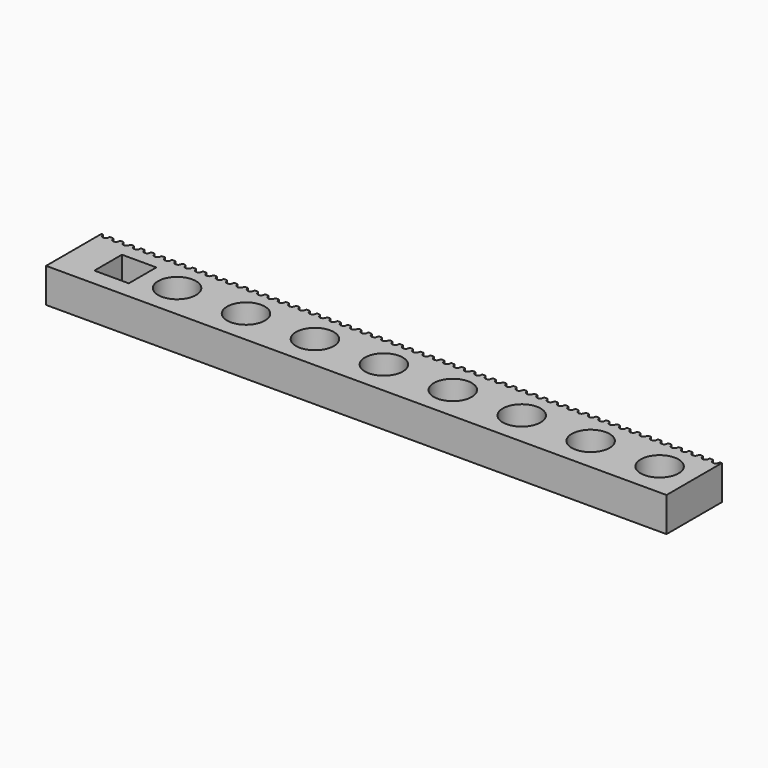
from build123d import *

# Parameters (mm, degrees)
F0_W     = 10
F0_H     = 10
F0_R     = 5.5
F1_DEPTH = 10


with BuildPart() as f1:
    # F0 (on Top) → F1 (new body)
    with BuildSketch(Plane.XY):
        Polygon((0, -1.2), (0, -20.096504), (180, -20.096504), (180, -1.2), (178.5, -1.2), (175.5, -1.2), (172.5, -1.2), (169.5, -1.2), (166.5, -1.2), (163.5, -1.2), (160.5, -1.2), (157.5, -1.2), (154.5, -1.2), (151.5, -1.2), (148.5, -1.2), (145.5, -1.2), (142.5, -1.2), (139.5, -1.2), (136.5, -1.2), (133.5, -1.2), (130.5, -1.2), (127.5, -1.2), (124.5, -1.2), (121.5, -1.2), (118.5, -1.2), (115.5, -1.2), (112.5, -1.2), (109.5, -1.2), (106.5, -1.2), (103.5, -1.2), (100.5, -1.2), (97.5, -1.2), (94.5, -1.2), (91.5, -1.2), (88.5, -1.2), (85.5, -1.2), (82.5, -1.2), (79.5, -1.2), (76.5, -1.2), (73.5, -1.2), (70.5, -1.2), (67.5, -1.2), (64.5, -1.2), (61.5, -1.2), (58.5, -1.2), (55.5, -1.2), (52.5, -1.2), (49.5, -1.2), (46.5, -1.2), (43.5, -1.2), (40.5, -1.2), (37.5, -1.2), (34.5, -1.2), (31.5, -1.2), (28.5, -1.2), (25.5, -1.2), (22.5, -1.2), (19.5, -1.2), (16.5, -1.2), (13.5, -1.2), (10.5, -1.2), (7.5, -1.2), (4.5, -1.2), (1.5, -1.2), align=None)
        with Locations((15, -10.096504)):
            Rectangle(F0_W, F0_H, mode=Mode.SUBTRACT)
        with Locations((30, -10.096504)):
            Circle(F0_R, mode=Mode.SUBTRACT)
        with Locations((50, -10.096504)):
            Circle(F0_R, mode=Mode.SUBTRACT)
        with Locations((70, -10.096504)):
            Circle(F0_R, mode=Mode.SUBTRACT)
        with Locations((90, -10.096504)):
            Circle(F0_R, mode=Mode.SUBTRACT)
        with Locations((110, -10.096504)):
            Circle(F0_R, mode=Mode.SUBTRACT)
        with Locations((130, -10.096504)):
            Circle(F0_R, mode=Mode.SUBTRACT)
        with Locations((150, -10.096504)):
            Circle(F0_R, mode=Mode.SUBTRACT)
        with Locations((170, -10.096504)):
            Circle(F0_R, mode=Mode.SUBTRACT)
        with BuildLine():
            Line((0, 0), (0, -1.2))
            Line((0, -1.2), (1.5, -1.2))
            ThreePointArc((1.5, -1.2), (0.863604, -0.936396), (0.6, -0.3))
            ThreePointArc((0.6, -0.3), (0.512132, -0.087868), (0.3, 0))
            Line((0.3, 0), (0, 0))
        make_face()
        with BuildLine():
            Line((178.5, -1.2), (180, -1.2))
            Line((180, -1.2), (180, 0))
            Line((180, 0), (179.7, 0))
            ThreePointArc((179.7, 0), (179.487868, -0.087868), (179.4, -0.3))
            ThreePointArc((179.4, -0.3), (179.136396, -0.936396), (178.5, -1.2))
        make_face()
        with BuildLine():
            ThreePointArc((2.4, -0.3), (2.136396, -0.936396), (1.5, -1.2))
            Line((1.5, -1.2), (4.5, -1.2))
            ThreePointArc((4.5, -1.2), (3.863604, -0.936396), (3.6, -0.3))
            ThreePointArc((3.6, -0.3), (3.512132, -0.087868), (3.3, 0))
            Line((3.3, 0), (3, 0))
            Line((3, 0), (2.7, 0))
            ThreePointArc((2.7, 0), (2.487868, -0.087868), (2.4, -0.3))
        make_face()
        with BuildLine():
            Line((175.5, -1.2), (178.5, -1.2))
            ThreePointArc((178.5, -1.2), (177.863604, -0.936396), (177.6, -0.3))
            ThreePointArc((177.6, -0.3), (177.512132, -0.087868), (177.3, 0))
            Line((177.3, 0), (177, 0))
            Line((177, 0), (176.7, 0))
            ThreePointArc((176.7, 0), (176.487868, -0.087868), (176.4, -0.3))
            ThreePointArc((176.4, -0.3), (176.136396, -0.936396), (175.5, -1.2))
        make_face()
        with BuildLine():
            ThreePointArc((5.4, -0.3), (5.136396, -0.936396), (4.5, -1.2))
            Line((4.5, -1.2), (7.5, -1.2))
            ThreePointArc((7.5, -1.2), (6.863604, -0.936396), (6.6, -0.3))
            ThreePointArc((6.6, -0.3), (6.512132, -0.087868), (6.3, 0))
            Line((6.3, 0), (6, 0))
            Line((6, 0), (5.7, 0))
            ThreePointArc((5.7, 0), (5.487868, -0.087868), (5.4, -0.3))
        make_face()
        with BuildLine():
            Line((172.5, -1.2), (175.5, -1.2))
            ThreePointArc((175.5, -1.2), (174.863604, -0.936396), (174.6, -0.3))
            ThreePointArc((174.6, -0.3), (174.512132, -0.087868), (174.3, 0))
            Line((174.3, 0), (174, 0))
            Line((174, 0), (173.7, 0))
            ThreePointArc((173.7, 0), (173.487868, -0.087868), (173.4, -0.3))
            ThreePointArc((173.4, -0.3), (173.136396, -0.936396), (172.5, -1.2))
        make_face()
        with BuildLine():
            ThreePointArc((8.4, -0.3), (8.136396, -0.936396), (7.5, -1.2))
            Line((7.5, -1.2), (10.5, -1.2))
            ThreePointArc((10.5, -1.2), (9.863604, -0.936396), (9.6, -0.3))
            ThreePointArc((9.6, -0.3), (9.512132, -0.087868), (9.3, 0))
            Line((9.3, 0), (9, 0))
            Line((9, 0), (8.7, 0))
            ThreePointArc((8.7, 0), (8.487868, -0.087868), (8.4, -0.3))
        make_face()
        with BuildLine():
            Line((169.5, -1.2), (172.5, -1.2))
            ThreePointArc((172.5, -1.2), (171.863604, -0.936396), (171.6, -0.3))
            ThreePointArc((171.6, -0.3), (171.512132, -0.087868), (171.3, 0))
            Line((171.3, 0), (171, 0))
            Line((171, 0), (170.7, 0))
            ThreePointArc((170.7, 0), (170.487868, -0.087868), (170.4, -0.3))
            ThreePointArc((170.4, -0.3), (170.136396, -0.936396), (169.5, -1.2))
        make_face()
        with BuildLine():
            ThreePointArc((11.4, -0.3), (11.136396, -0.936396), (10.5, -1.2))
            Line((10.5, -1.2), (13.5, -1.2))
            ThreePointArc((13.5, -1.2), (12.863604, -0.936396), (12.6, -0.3))
            ThreePointArc((12.6, -0.3), (12.512132, -0.087868), (12.3, 0))
            Line((12.3, 0), (12, 0))
            Line((12, 0), (11.7, 0))
            ThreePointArc((11.7, 0), (11.487868, -0.087868), (11.4, -0.3))
        make_face()
        with BuildLine():
            Line((166.5, -1.2), (169.5, -1.2))
            ThreePointArc((169.5, -1.2), (168.863604, -0.936396), (168.6, -0.3))
            ThreePointArc((168.6, -0.3), (168.512132, -0.087868), (168.3, 0))
            Line((168.3, 0), (168, 0))
            Line((168, 0), (167.7, 0))
            ThreePointArc((167.7, 0), (167.487868, -0.087868), (167.4, -0.3))
            ThreePointArc((167.4, -0.3), (167.136396, -0.936396), (166.5, -1.2))
        make_face()
        with BuildLine():
            ThreePointArc((14.4, -0.3), (14.136396, -0.936396), (13.5, -1.2))
            Line((13.5, -1.2), (16.5, -1.2))
            ThreePointArc((16.5, -1.2), (15.863604, -0.936396), (15.6, -0.3))
            ThreePointArc((15.6, -0.3), (15.512132, -0.087868), (15.3, 0))
            Line((15.3, 0), (15, 0))
            Line((15, 0), (14.7, 0))
            ThreePointArc((14.7, 0), (14.487868, -0.087868), (14.4, -0.3))
        make_face()
        with BuildLine():
            Line((163.5, -1.2), (166.5, -1.2))
            ThreePointArc((166.5, -1.2), (165.863604, -0.936396), (165.6, -0.3))
            ThreePointArc((165.6, -0.3), (165.512132, -0.087868), (165.3, 0))
            Line((165.3, 0), (165, 0))
            Line((165, 0), (164.7, 0))
            ThreePointArc((164.7, 0), (164.487868, -0.087868), (164.4, -0.3))
            ThreePointArc((164.4, -0.3), (164.136396, -0.936396), (163.5, -1.2))
        make_face()
        with BuildLine():
            ThreePointArc((17.4, -0.3), (17.136396, -0.936396), (16.5, -1.2))
            Line((16.5, -1.2), (19.5, -1.2))
            ThreePointArc((19.5, -1.2), (18.863604, -0.936396), (18.6, -0.3))
            ThreePointArc((18.6, -0.3), (18.512132, -0.087868), (18.3, 0))
            Line((18.3, 0), (18, 0))
            Line((18, 0), (17.7, 0))
            ThreePointArc((17.7, 0), (17.487868, -0.087868), (17.4, -0.3))
        make_face()
        with BuildLine():
            Line((160.5, -1.2), (163.5, -1.2))
            ThreePointArc((163.5, -1.2), (162.863604, -0.936396), (162.6, -0.3))
            ThreePointArc((162.6, -0.3), (162.512132, -0.087868), (162.3, 0))
            Line((162.3, 0), (162, 0))
            Line((162, 0), (161.7, 0))
            ThreePointArc((161.7, 0), (161.487868, -0.087868), (161.4, -0.3))
            ThreePointArc((161.4, -0.3), (161.136396, -0.936396), (160.5, -1.2))
        make_face()
        with BuildLine():
            ThreePointArc((20.4, -0.3), (20.136396, -0.936396), (19.5, -1.2))
            Line((19.5, -1.2), (22.5, -1.2))
            ThreePointArc((22.5, -1.2), (21.863604, -0.936396), (21.6, -0.3))
            ThreePointArc((21.6, -0.3), (21.512132, -0.087868), (21.3, 0))
            Line((21.3, 0), (21, 0))
            Line((21, 0), (20.7, 0))
            ThreePointArc((20.7, 0), (20.487868, -0.087868), (20.4, -0.3))
        make_face()
        with BuildLine():
            Line((157.5, -1.2), (160.5, -1.2))
            ThreePointArc((160.5, -1.2), (159.863604, -0.936396), (159.6, -0.3))
            ThreePointArc((159.6, -0.3), (159.512132, -0.087868), (159.3, 0))
            Line((159.3, 0), (159, 0))
            Line((159, 0), (158.7, 0))
            ThreePointArc((158.7, 0), (158.487868, -0.087868), (158.4, -0.3))
            ThreePointArc((158.4, -0.3), (158.136396, -0.936396), (157.5, -1.2))
        make_face()
        with BuildLine():
            ThreePointArc((23.4, -0.3), (23.136396, -0.936396), (22.5, -1.2))
            Line((22.5, -1.2), (25.5, -1.2))
            ThreePointArc((25.5, -1.2), (24.863604, -0.936396), (24.6, -0.3))
            ThreePointArc((24.6, -0.3), (24.512132, -0.087868), (24.3, 0))
            Line((24.3, 0), (24, 0))
            Line((24, 0), (23.7, 0))
            ThreePointArc((23.7, 0), (23.487868, -0.087868), (23.4, -0.3))
        make_face()
        with BuildLine():
            Line((154.5, -1.2), (157.5, -1.2))
            ThreePointArc((157.5, -1.2), (156.863604, -0.936396), (156.6, -0.3))
            ThreePointArc((156.6, -0.3), (156.512132, -0.087868), (156.3, 0))
            Line((156.3, 0), (156, 0))
            Line((156, 0), (155.7, 0))
            ThreePointArc((155.7, 0), (155.487868, -0.087868), (155.4, -0.3))
            ThreePointArc((155.4, -0.3), (155.136396, -0.936396), (154.5, -1.2))
        make_face()
        with BuildLine():
            ThreePointArc((26.4, -0.3), (26.136396, -0.936396), (25.5, -1.2))
            Line((25.5, -1.2), (28.5, -1.2))
            ThreePointArc((28.5, -1.2), (27.863604, -0.936396), (27.6, -0.3))
            ThreePointArc((27.6, -0.3), (27.512132, -0.087868), (27.3, 0))
            Line((27.3, 0), (27, 0))
            Line((27, 0), (26.7, 0))
            ThreePointArc((26.7, 0), (26.487868, -0.087868), (26.4, -0.3))
        make_face()
        with BuildLine():
            Line((151.5, -1.2), (154.5, -1.2))
            ThreePointArc((154.5, -1.2), (153.863604, -0.936396), (153.6, -0.3))
            ThreePointArc((153.6, -0.3), (153.512132, -0.087868), (153.3, 0))
            Line((153.3, 0), (153, 0))
            Line((153, 0), (152.7, 0))
            ThreePointArc((152.7, 0), (152.487868, -0.087868), (152.4, -0.3))
            ThreePointArc((152.4, -0.3), (152.136396, -0.936396), (151.5, -1.2))
        make_face()
        with BuildLine():
            ThreePointArc((29.4, -0.3), (29.136396, -0.936396), (28.5, -1.2))
            Line((28.5, -1.2), (31.5, -1.2))
            ThreePointArc((31.5, -1.2), (30.863604, -0.936396), (30.6, -0.3))
            ThreePointArc((30.6, -0.3), (30.512132, -0.087868), (30.3, 0))
            Line((30.3, 0), (30, 0))
            Line((30, 0), (29.7, 0))
            ThreePointArc((29.7, 0), (29.487868, -0.087868), (29.4, -0.3))
        make_face()
        with BuildLine():
            Line((148.5, -1.2), (151.5, -1.2))
            ThreePointArc((151.5, -1.2), (150.863604, -0.936396), (150.6, -0.3))
            ThreePointArc((150.6, -0.3), (150.512132, -0.087868), (150.3, 0))
            Line((150.3, 0), (150, 0))
            Line((150, 0), (149.7, 0))
            ThreePointArc((149.7, 0), (149.487868, -0.087868), (149.4, -0.3))
            ThreePointArc((149.4, -0.3), (149.136396, -0.936396), (148.5, -1.2))
        make_face()
        with BuildLine():
            ThreePointArc((32.4, -0.3), (32.136396, -0.936396), (31.5, -1.2))
            Line((31.5, -1.2), (34.5, -1.2))
            ThreePointArc((34.5, -1.2), (33.863604, -0.936396), (33.6, -0.3))
            ThreePointArc((33.6, -0.3), (33.512132, -0.087868), (33.3, 0))
            Line((33.3, 0), (33, 0))
            Line((33, 0), (32.7, 0))
            ThreePointArc((32.7, 0), (32.487868, -0.087868), (32.4, -0.3))
        make_face()
        with BuildLine():
            Line((145.5, -1.2), (148.5, -1.2))
            ThreePointArc((148.5, -1.2), (147.863604, -0.936396), (147.6, -0.3))
            ThreePointArc((147.6, -0.3), (147.512132, -0.087868), (147.3, 0))
            Line((147.3, 0), (147, 0))
            Line((147, 0), (146.7, 0))
            ThreePointArc((146.7, 0), (146.487868, -0.087868), (146.4, -0.3))
            ThreePointArc((146.4, -0.3), (146.136396, -0.936396), (145.5, -1.2))
        make_face()
        with BuildLine():
            ThreePointArc((35.4, -0.3), (35.136396, -0.936396), (34.5, -1.2))
            Line((34.5, -1.2), (37.5, -1.2))
            ThreePointArc((37.5, -1.2), (36.863604, -0.936396), (36.6, -0.3))
            ThreePointArc((36.6, -0.3), (36.512132, -0.087868), (36.3, 0))
            Line((36.3, 0), (36, 0))
            Line((36, 0), (35.7, 0))
            ThreePointArc((35.7, 0), (35.487868, -0.087868), (35.4, -0.3))
        make_face()
        with BuildLine():
            Line((142.5, -1.2), (145.5, -1.2))
            ThreePointArc((145.5, -1.2), (144.863604, -0.936396), (144.6, -0.3))
            ThreePointArc((144.6, -0.3), (144.512132, -0.087868), (144.3, 0))
            Line((144.3, 0), (144, 0))
            Line((144, 0), (143.7, 0))
            ThreePointArc((143.7, 0), (143.487868, -0.087868), (143.4, -0.3))
            ThreePointArc((143.4, -0.3), (143.136396, -0.936396), (142.5, -1.2))
        make_face()
        with BuildLine():
            ThreePointArc((38.4, -0.3), (38.136396, -0.936396), (37.5, -1.2))
            Line((37.5, -1.2), (40.5, -1.2))
            ThreePointArc((40.5, -1.2), (39.863604, -0.936396), (39.6, -0.3))
            ThreePointArc((39.6, -0.3), (39.512132, -0.087868), (39.3, 0))
            Line((39.3, 0), (39, 0))
            Line((39, 0), (38.7, 0))
            ThreePointArc((38.7, 0), (38.487868, -0.087868), (38.4, -0.3))
        make_face()
        with BuildLine():
            Line((139.5, -1.2), (142.5, -1.2))
            ThreePointArc((142.5, -1.2), (141.863604, -0.936396), (141.6, -0.3))
            ThreePointArc((141.6, -0.3), (141.512132, -0.087868), (141.3, 0))
            Line((141.3, 0), (141, 0))
            Line((141, 0), (140.7, 0))
            ThreePointArc((140.7, 0), (140.487868, -0.087868), (140.4, -0.3))
            ThreePointArc((140.4, -0.3), (140.136396, -0.936396), (139.5, -1.2))
        make_face()
        with BuildLine():
            ThreePointArc((41.4, -0.3), (41.136396, -0.936396), (40.5, -1.2))
            Line((40.5, -1.2), (43.5, -1.2))
            ThreePointArc((43.5, -1.2), (42.863604, -0.936396), (42.6, -0.3))
            ThreePointArc((42.6, -0.3), (42.512132, -0.087868), (42.3, 0))
            Line((42.3, 0), (42, 0))
            Line((42, 0), (41.7, 0))
            ThreePointArc((41.7, 0), (41.487868, -0.087868), (41.4, -0.3))
        make_face()
        with BuildLine():
            Line((136.5, -1.2), (139.5, -1.2))
            ThreePointArc((139.5, -1.2), (138.863604, -0.936396), (138.6, -0.3))
            ThreePointArc((138.6, -0.3), (138.512132, -0.087868), (138.3, 0))
            Line((138.3, 0), (138, 0))
            Line((138, 0), (137.7, 0))
            ThreePointArc((137.7, 0), (137.487868, -0.087868), (137.4, -0.3))
            ThreePointArc((137.4, -0.3), (137.136396, -0.936396), (136.5, -1.2))
        make_face()
        with BuildLine():
            ThreePointArc((44.4, -0.3), (44.136396, -0.936396), (43.5, -1.2))
            Line((43.5, -1.2), (46.5, -1.2))
            ThreePointArc((46.5, -1.2), (45.863604, -0.936396), (45.6, -0.3))
            ThreePointArc((45.6, -0.3), (45.512132, -0.087868), (45.3, 0))
            Line((45.3, 0), (45, 0))
            Line((45, 0), (44.7, 0))
            ThreePointArc((44.7, 0), (44.487868, -0.087868), (44.4, -0.3))
        make_face()
        with BuildLine():
            Line((133.5, -1.2), (136.5, -1.2))
            ThreePointArc((136.5, -1.2), (135.863604, -0.936396), (135.6, -0.3))
            ThreePointArc((135.6, -0.3), (135.512132, -0.087868), (135.3, 0))
            Line((135.3, 0), (135, 0))
            Line((135, 0), (134.7, 0))
            ThreePointArc((134.7, 0), (134.487868, -0.087868), (134.4, -0.3))
            ThreePointArc((134.4, -0.3), (134.136396, -0.936396), (133.5, -1.2))
        make_face()
        with BuildLine():
            ThreePointArc((47.4, -0.3), (47.136396, -0.936396), (46.5, -1.2))
            Line((46.5, -1.2), (49.5, -1.2))
            ThreePointArc((49.5, -1.2), (48.863604, -0.936396), (48.6, -0.3))
            ThreePointArc((48.6, -0.3), (48.512132, -0.087868), (48.3, 0))
            Line((48.3, 0), (48, 0))
            Line((48, 0), (47.7, 0))
            ThreePointArc((47.7, 0), (47.487868, -0.087868), (47.4, -0.3))
        make_face()
        with BuildLine():
            Line((130.5, -1.2), (133.5, -1.2))
            ThreePointArc((133.5, -1.2), (132.863604, -0.936396), (132.6, -0.3))
            ThreePointArc((132.6, -0.3), (132.512132, -0.087868), (132.3, 0))
            Line((132.3, 0), (132, 0))
            Line((132, 0), (131.7, 0))
            ThreePointArc((131.7, 0), (131.487868, -0.087868), (131.4, -0.3))
            ThreePointArc((131.4, -0.3), (131.136396, -0.936396), (130.5, -1.2))
        make_face()
        with BuildLine():
            ThreePointArc((50.4, -0.3), (50.136396, -0.936396), (49.5, -1.2))
            Line((49.5, -1.2), (52.5, -1.2))
            ThreePointArc((52.5, -1.2), (51.863604, -0.936396), (51.6, -0.3))
            ThreePointArc((51.6, -0.3), (51.512132, -0.087868), (51.3, 0))
            Line((51.3, 0), (51, 0))
            Line((51, 0), (50.7, 0))
            ThreePointArc((50.7, 0), (50.487868, -0.087868), (50.4, -0.3))
        make_face()
        with BuildLine():
            Line((127.5, -1.2), (130.5, -1.2))
            ThreePointArc((130.5, -1.2), (129.863604, -0.936396), (129.6, -0.3))
            ThreePointArc((129.6, -0.3), (129.512132, -0.087868), (129.3, 0))
            Line((129.3, 0), (129, 0))
            Line((129, 0), (128.7, 0))
            ThreePointArc((128.7, 0), (128.487868, -0.087868), (128.4, -0.3))
            ThreePointArc((128.4, -0.3), (128.136396, -0.936396), (127.5, -1.2))
        make_face()
        with BuildLine():
            ThreePointArc((53.4, -0.3), (53.136396, -0.936396), (52.5, -1.2))
            Line((52.5, -1.2), (55.5, -1.2))
            ThreePointArc((55.5, -1.2), (54.863604, -0.936396), (54.6, -0.3))
            ThreePointArc((54.6, -0.3), (54.512132, -0.087868), (54.3, 0))
            Line((54.3, 0), (54, 0))
            Line((54, 0), (53.7, 0))
            ThreePointArc((53.7, 0), (53.487868, -0.087868), (53.4, -0.3))
        make_face()
        with BuildLine():
            Line((124.5, -1.2), (127.5, -1.2))
            ThreePointArc((127.5, -1.2), (126.863604, -0.936396), (126.6, -0.3))
            ThreePointArc((126.6, -0.3), (126.512132, -0.087868), (126.3, 0))
            Line((126.3, 0), (126, 0))
            Line((126, 0), (125.7, 0))
            ThreePointArc((125.7, 0), (125.487868, -0.087868), (125.4, -0.3))
            ThreePointArc((125.4, -0.3), (125.136396, -0.936396), (124.5, -1.2))
        make_face()
        with BuildLine():
            ThreePointArc((56.4, -0.3), (56.136396, -0.936396), (55.5, -1.2))
            Line((55.5, -1.2), (58.5, -1.2))
            ThreePointArc((58.5, -1.2), (57.863604, -0.936396), (57.6, -0.3))
            ThreePointArc((57.6, -0.3), (57.512132, -0.087868), (57.3, 0))
            Line((57.3, 0), (57, 0))
            Line((57, 0), (56.7, 0))
            ThreePointArc((56.7, 0), (56.487868, -0.087868), (56.4, -0.3))
        make_face()
        with BuildLine():
            Line((121.5, -1.2), (124.5, -1.2))
            ThreePointArc((124.5, -1.2), (123.863604, -0.936396), (123.6, -0.3))
            ThreePointArc((123.6, -0.3), (123.512132, -0.087868), (123.3, 0))
            Line((123.3, 0), (123, 0))
            Line((123, 0), (122.7, 0))
            ThreePointArc((122.7, 0), (122.487868, -0.087868), (122.4, -0.3))
            ThreePointArc((122.4, -0.3), (122.136396, -0.936396), (121.5, -1.2))
        make_face()
        with BuildLine():
            ThreePointArc((59.4, -0.3), (59.136396, -0.936396), (58.5, -1.2))
            Line((58.5, -1.2), (61.5, -1.2))
            ThreePointArc((61.5, -1.2), (60.863604, -0.936396), (60.6, -0.3))
            ThreePointArc((60.6, -0.3), (60.512132, -0.087868), (60.3, 0))
            Line((60.3, 0), (60, 0))
            Line((60, 0), (59.7, 0))
            ThreePointArc((59.7, 0), (59.487868, -0.087868), (59.4, -0.3))
        make_face()
        with BuildLine():
            Line((118.5, -1.2), (121.5, -1.2))
            ThreePointArc((121.5, -1.2), (120.863604, -0.936396), (120.6, -0.3))
            ThreePointArc((120.6, -0.3), (120.512132, -0.087868), (120.3, 0))
            Line((120.3, 0), (120, 0))
            Line((120, 0), (119.7, 0))
            ThreePointArc((119.7, 0), (119.487868, -0.087868), (119.4, -0.3))
            ThreePointArc((119.4, -0.3), (119.136396, -0.936396), (118.5, -1.2))
        make_face()
        with BuildLine():
            ThreePointArc((62.4, -0.3), (62.136396, -0.936396), (61.5, -1.2))
            Line((61.5, -1.2), (64.5, -1.2))
            ThreePointArc((64.5, -1.2), (63.863604, -0.936396), (63.6, -0.3))
            ThreePointArc((63.6, -0.3), (63.512132, -0.087868), (63.3, 0))
            Line((63.3, 0), (63, 0))
            Line((63, 0), (62.7, 0))
            ThreePointArc((62.7, 0), (62.487868, -0.087868), (62.4, -0.3))
        make_face()
        with BuildLine():
            Line((115.5, -1.2), (118.5, -1.2))
            ThreePointArc((118.5, -1.2), (117.863604, -0.936396), (117.6, -0.3))
            ThreePointArc((117.6, -0.3), (117.512132, -0.087868), (117.3, 0))
            Line((117.3, 0), (117, 0))
            Line((117, 0), (116.7, 0))
            ThreePointArc((116.7, 0), (116.487868, -0.087868), (116.4, -0.3))
            ThreePointArc((116.4, -0.3), (116.136396, -0.936396), (115.5, -1.2))
        make_face()
        with BuildLine():
            ThreePointArc((65.4, -0.3), (65.136396, -0.936396), (64.5, -1.2))
            Line((64.5, -1.2), (67.5, -1.2))
            ThreePointArc((67.5, -1.2), (66.863604, -0.936396), (66.6, -0.3))
            ThreePointArc((66.6, -0.3), (66.512132, -0.087868), (66.3, 0))
            Line((66.3, 0), (66, 0))
            Line((66, 0), (65.7, 0))
            ThreePointArc((65.7, 0), (65.487868, -0.087868), (65.4, -0.3))
        make_face()
        with BuildLine():
            Line((112.5, -1.2), (115.5, -1.2))
            ThreePointArc((115.5, -1.2), (114.863604, -0.936396), (114.6, -0.3))
            ThreePointArc((114.6, -0.3), (114.512132, -0.087868), (114.3, 0))
            Line((114.3, 0), (114, 0))
            Line((114, 0), (113.7, 0))
            ThreePointArc((113.7, 0), (113.487868, -0.087868), (113.4, -0.3))
            ThreePointArc((113.4, -0.3), (113.136396, -0.936396), (112.5, -1.2))
        make_face()
        with BuildLine():
            ThreePointArc((68.4, -0.3), (68.136396, -0.936396), (67.5, -1.2))
            Line((67.5, -1.2), (70.5, -1.2))
            ThreePointArc((70.5, -1.2), (69.863604, -0.936396), (69.6, -0.3))
            ThreePointArc((69.6, -0.3), (69.512132, -0.087868), (69.3, 0))
            Line((69.3, 0), (69, 0))
            Line((69, 0), (68.7, 0))
            ThreePointArc((68.7, 0), (68.487868, -0.087868), (68.4, -0.3))
        make_face()
        with BuildLine():
            Line((109.5, -1.2), (112.5, -1.2))
            ThreePointArc((112.5, -1.2), (111.863604, -0.936396), (111.6, -0.3))
            ThreePointArc((111.6, -0.3), (111.512132, -0.087868), (111.3, 0))
            Line((111.3, 0), (111, 0))
            Line((111, 0), (110.7, 0))
            ThreePointArc((110.7, 0), (110.487868, -0.087868), (110.4, -0.3))
            ThreePointArc((110.4, -0.3), (110.136396, -0.936396), (109.5, -1.2))
        make_face()
        with BuildLine():
            ThreePointArc((71.4, -0.3), (71.136396, -0.936396), (70.5, -1.2))
            Line((70.5, -1.2), (73.5, -1.2))
            ThreePointArc((73.5, -1.2), (72.863604, -0.936396), (72.6, -0.3))
            ThreePointArc((72.6, -0.3), (72.512132, -0.087868), (72.3, 0))
            Line((72.3, 0), (72, 0))
            Line((72, 0), (71.7, 0))
            ThreePointArc((71.7, 0), (71.487868, -0.087868), (71.4, -0.3))
        make_face()
        with BuildLine():
            Line((106.5, -1.2), (109.5, -1.2))
            ThreePointArc((109.5, -1.2), (108.863604, -0.936396), (108.6, -0.3))
            ThreePointArc((108.6, -0.3), (108.512132, -0.087868), (108.3, 0))
            Line((108.3, 0), (108, 0))
            Line((108, 0), (107.7, 0))
            ThreePointArc((107.7, 0), (107.487868, -0.087868), (107.4, -0.3))
            ThreePointArc((107.4, -0.3), (107.136396, -0.936396), (106.5, -1.2))
        make_face()
        with BuildLine():
            ThreePointArc((74.4, -0.3), (74.136396, -0.936396), (73.5, -1.2))
            Line((73.5, -1.2), (76.5, -1.2))
            ThreePointArc((76.5, -1.2), (75.863604, -0.936396), (75.6, -0.3))
            ThreePointArc((75.6, -0.3), (75.512132, -0.087868), (75.3, 0))
            Line((75.3, 0), (75, 0))
            Line((75, 0), (74.7, 0))
            ThreePointArc((74.7, 0), (74.487868, -0.087868), (74.4, -0.3))
        make_face()
        with BuildLine():
            Line((103.5, -1.2), (106.5, -1.2))
            ThreePointArc((106.5, -1.2), (105.863604, -0.936396), (105.6, -0.3))
            ThreePointArc((105.6, -0.3), (105.512132, -0.087868), (105.3, 0))
            Line((105.3, 0), (105, 0))
            Line((105, 0), (104.7, 0))
            ThreePointArc((104.7, 0), (104.487868, -0.087868), (104.4, -0.3))
            ThreePointArc((104.4, -0.3), (104.136396, -0.936396), (103.5, -1.2))
        make_face()
        with BuildLine():
            ThreePointArc((77.4, -0.3), (77.136396, -0.936396), (76.5, -1.2))
            Line((76.5, -1.2), (79.5, -1.2))
            ThreePointArc((79.5, -1.2), (78.863604, -0.936396), (78.6, -0.3))
            ThreePointArc((78.6, -0.3), (78.512132, -0.087868), (78.3, 0))
            Line((78.3, 0), (78, 0))
            Line((78, 0), (77.7, 0))
            ThreePointArc((77.7, 0), (77.487868, -0.087868), (77.4, -0.3))
        make_face()
        with BuildLine():
            Line((100.5, -1.2), (103.5, -1.2))
            ThreePointArc((103.5, -1.2), (102.863604, -0.936396), (102.6, -0.3))
            ThreePointArc((102.6, -0.3), (102.512132, -0.087868), (102.3, 0))
            Line((102.3, 0), (102, 0))
            Line((102, 0), (101.7, 0))
            ThreePointArc((101.7, 0), (101.487868, -0.087868), (101.4, -0.3))
            ThreePointArc((101.4, -0.3), (101.136396, -0.936396), (100.5, -1.2))
        make_face()
        with BuildLine():
            ThreePointArc((80.4, -0.3), (80.136396, -0.936396), (79.5, -1.2))
            Line((79.5, -1.2), (82.5, -1.2))
            ThreePointArc((82.5, -1.2), (81.863604, -0.936396), (81.6, -0.3))
            ThreePointArc((81.6, -0.3), (81.512132, -0.087868), (81.3, 0))
            Line((81.3, 0), (81, 0))
            Line((81, 0), (80.7, 0))
            ThreePointArc((80.7, 0), (80.487868, -0.087868), (80.4, -0.3))
        make_face()
        with BuildLine():
            Line((97.5, -1.2), (100.5, -1.2))
            ThreePointArc((100.5, -1.2), (99.863604, -0.936396), (99.6, -0.3))
            ThreePointArc((99.6, -0.3), (99.512132, -0.087868), (99.3, 0))
            Line((99.3, 0), (99, 0))
            Line((99, 0), (98.7, 0))
            ThreePointArc((98.7, 0), (98.487868, -0.087868), (98.4, -0.3))
            ThreePointArc((98.4, -0.3), (98.136396, -0.936396), (97.5, -1.2))
        make_face()
        with BuildLine():
            ThreePointArc((83.4, -0.3), (83.136396, -0.936396), (82.5, -1.2))
            Line((82.5, -1.2), (85.5, -1.2))
            ThreePointArc((85.5, -1.2), (84.863604, -0.936396), (84.6, -0.3))
            ThreePointArc((84.6, -0.3), (84.512132, -0.087868), (84.3, 0))
            Line((84.3, 0), (84, 0))
            Line((84, 0), (83.7, 0))
            ThreePointArc((83.7, 0), (83.487868, -0.087868), (83.4, -0.3))
        make_face()
        with BuildLine():
            Line((94.5, -1.2), (97.5, -1.2))
            ThreePointArc((97.5, -1.2), (96.863604, -0.936396), (96.6, -0.3))
            ThreePointArc((96.6, -0.3), (96.512132, -0.087868), (96.3, 0))
            Line((96.3, 0), (96, 0))
            Line((96, 0), (95.7, 0))
            ThreePointArc((95.7, 0), (95.487868, -0.087868), (95.4, -0.3))
            ThreePointArc((95.4, -0.3), (95.136396, -0.936396), (94.5, -1.2))
        make_face()
        with BuildLine():
            ThreePointArc((86.4, -0.3), (86.136396, -0.936396), (85.5, -1.2))
            Line((85.5, -1.2), (88.5, -1.2))
            ThreePointArc((88.5, -1.2), (87.863604, -0.936396), (87.6, -0.3))
            ThreePointArc((87.6, -0.3), (87.512132, -0.087868), (87.3, 0))
            Line((87.3, 0), (87, 0))
            Line((87, 0), (86.7, 0))
            ThreePointArc((86.7, 0), (86.487868, -0.087868), (86.4, -0.3))
        make_face()
        with BuildLine():
            Line((91.5, -1.2), (94.5, -1.2))
            ThreePointArc((94.5, -1.2), (93.863604, -0.936396), (93.6, -0.3))
            ThreePointArc((93.6, -0.3), (93.512132, -0.087868), (93.3, 0))
            Line((93.3, 0), (93, 0))
            Line((93, 0), (92.7, 0))
            ThreePointArc((92.7, 0), (92.487868, -0.087868), (92.4, -0.3))
            ThreePointArc((92.4, -0.3), (92.136396, -0.936396), (91.5, -1.2))
        make_face()
        with BuildLine():
            ThreePointArc((89.4, -0.3), (89.136396, -0.936396), (88.5, -1.2))
            Line((88.5, -1.2), (91.5, -1.2))
            ThreePointArc((91.5, -1.2), (90.863604, -0.936396), (90.6, -0.3))
            ThreePointArc((90.6, -0.3), (90.512132, -0.087868), (90.3, 0))
            Line((90.3, 0), (90, 0))
            Line((90, 0), (89.7, 0))
            ThreePointArc((89.7, 0), (89.487868, -0.087868), (89.4, -0.3))
        make_face()
    extrude(amount=F1_DEPTH)


solid = f1.part
